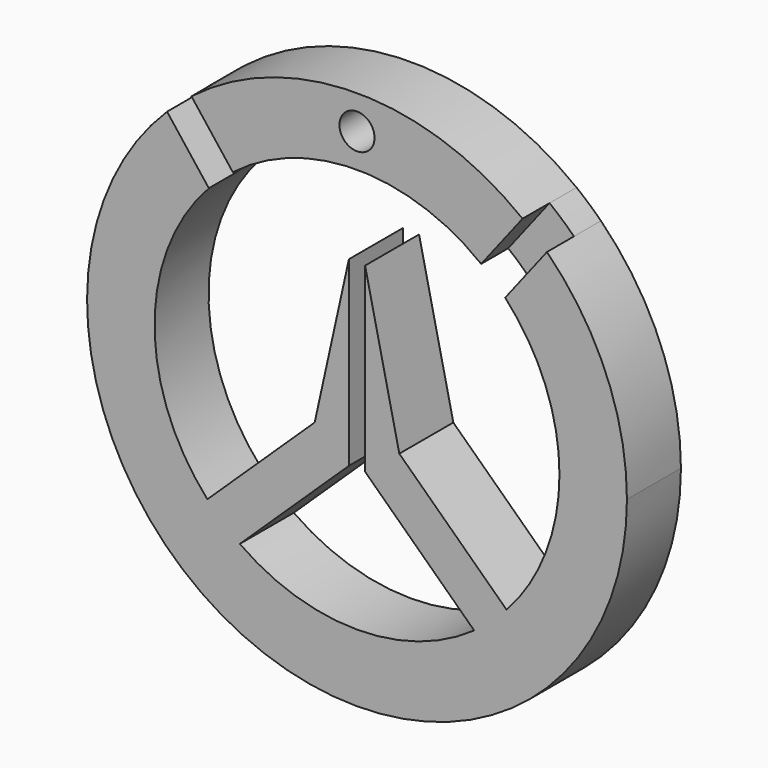
from build123d import *

# Parameters (mm, degrees)
F1_DEPTH = 6.35
F0_R     = 1.651
F2_DEPTH = 3.175


with BuildPart() as f1:
    # F0 (on Front) → F1 (new body)
    with BuildSketch(Plane.XZ):
        with BuildLine():
            ThreePointArc((11.0264984463, -15.5344401899), (12.6259487856, -14.2649191117), (14.0803208699, -12.831487217))
            Line((14.0803208699, -12.831487217), (3.9810826848, -3.1792186712))
            Line((3.9810826848, -3.1792186712), (0.762, 11.3559151068))
            Line((0.762, 11.3559151068), (0.762, -5.7242254315))
            Line((0.762, -5.7242254315), (11.0264984463, -15.5344401899))
        make_face()
        with BuildLine():
            Line((-3.9805361158, -3.1797711993), (-14.0807017487, -12.8310692565))
            ThreePointArc((-14.0807017487, -12.8310692565), (-12.6263635982, -14.2645519483), (-11.0269407935, -15.5341261981))
            Line((-11.0269407935, -15.5341261981), (-0.762, -5.725375853))
            Line((-0.762, -5.725375853), (-0.762, 11.3895507529))
            Line((-0.762, 11.3895507529), (-3.9805361158, -3.1797711993))
        make_face()
        with BuildLine():
            ThreePointArc((-17.8734776092, 18.047127144), (-9.7768519659, -23.4429768937), (25.4, 0))
            ThreePointArc((25.4, 0), (23.4429768937, 9.7768519659), (17.8734776092, 18.047127144))
            Line((17.8734776092, 18.047127144), (13.9408592709, 12.9828711304))
            ThreePointArc((13.9408592709, 12.9828711304), (17.7267575872, 6.9759992434), (19.05, 0))
            ThreePointArc((19.05, 0), (17.7641860575, -6.8801303559), (14.0803208699, -12.831487217))
            ThreePointArc((14.0803208699, -12.831487217), (12.6259487856, -14.2649191117), (11.0264984463, -15.5344401899))
            ThreePointArc((11.0264984463, -15.5344401899), (-0.0002712295, -19.0499999981), (-11.0269407935, -15.5341261981))
            ThreePointArc((-11.0269407935, -15.5341261981), (-12.6263635982, -14.2645519483), (-14.0807017487, -12.8310692565))
            ThreePointArc((-14.0807017487, -12.8310692565), (-19.0497204722, 0.1031985072), (-13.9408592709, 12.9828711304))
            Line((-13.9408592709, 12.9828711304), (-17.8734776092, 18.047127144))
        make_face()
    extrude(amount=F1_DEPTH)



with BuildPart() as f1b:
    # F0 (on Front) → F1, piece 2 (new body)
    with BuildSketch(Plane.XZ):
        with BuildLine():
            Line((11.684, 15.0461504711), (15.5786666667, 20.0615339615))
            ThreePointArc((15.5786666667, 20.0615339615), (0, 25.4), (-15.5786666667, 20.0615339615))
            Line((-15.5786666667, 20.0615339615), (-11.684, 15.0461504711))
            ThreePointArc((-11.684, 15.0461504711), (0, 19.05), (11.684, 15.0461504711))
        make_face()
        with Locations((0, 22.225)):
            Circle(F0_R, mode=Mode.SUBTRACT)
    extrude(amount=F1_DEPTH)


with BuildPart() as f1_1:
    add(f1.part)

    add(f1b.part)  # F2 merges F1b
    # F0 (on Front) → F2 (join)
    with BuildSketch(Plane.XZ):
        with BuildLine():
            ThreePointArc((-15.5786666667, 20.0615339615), (-16.7563703668, 19.0888462755), (-17.8734776092, 18.047127144))
            Line((-17.8734776092, 18.047127144), (-13.9408592709, 12.9828711304))
            ThreePointArc((-13.9408592709, 12.9828711304), (-12.8538956575, 14.0598672265), (-11.684, 15.0461504711))
            Line((-11.684, 15.0461504711), (-15.5786666667, 20.0615339615))
        make_face()
        with BuildLine():
            Line((13.9408592709, 12.9828711304), (17.8734776092, 18.047127144))
            ThreePointArc((17.8734776092, 18.047127144), (16.7563703668, 19.0888462755), (15.5786666667, 20.0615339615))
            Line((15.5786666667, 20.0615339615), (11.684, 15.0461504711))
            ThreePointArc((11.684, 15.0461504711), (12.8538956575, 14.0598672265), (13.9408592709, 12.9828711304))
        make_face()
    extrude(amount=F2_DEPTH)


solid = f1_1.part
